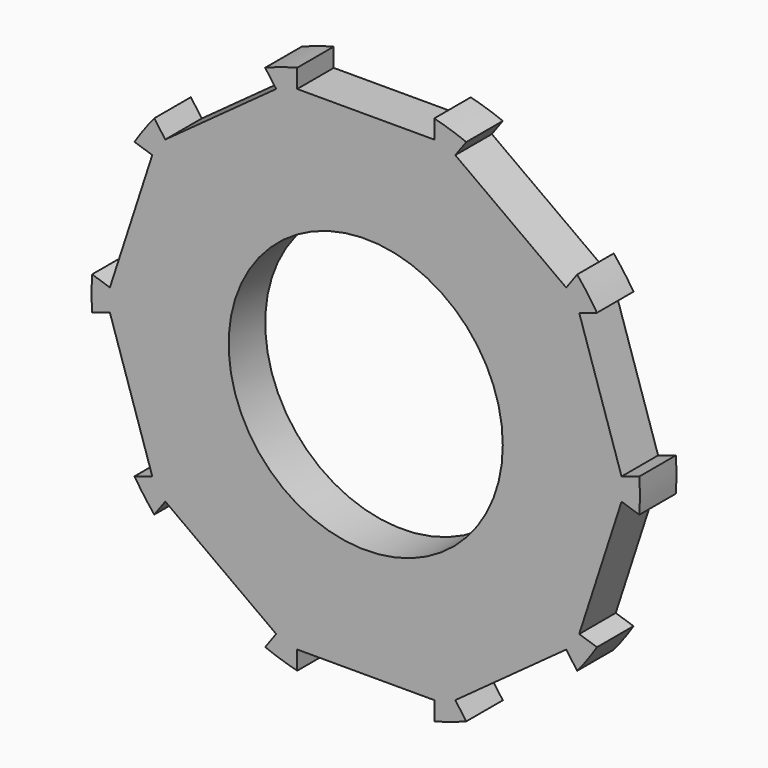
from build123d import *

# Parameters (mm, degrees)
F0_R     = 30
F0_R_2   = 15
F1_DEPTH = 5
F2_DEPTH = 25


with BuildPart() as f1:
    # F0 (on Front) → F1 (new body)
    with BuildSketch(Plane.XZ):
        Circle(F0_R)
        Circle(F0_R_2, mode=Mode.SUBTRACT)
    extrude(amount=F1_DEPTH)

    # F3 (on face) → F2 (cut)
    with BuildSketch(Plane.XZ.offset(5)):
        with BuildLine():
            ThreePointArc((7.5, 29.0473750966), (3.7801287745, 29.760890888), (0, 30))
            Line((0, 30), (0, 27))
            Line((0, 27), (7.5, 27))
            Line((7.5, 27), (7.5, 29.0473750966))
        make_face()
        with BuildLine():
            Line((0, 27), (0, 30))
            ThreePointArc((0, 30), (-3.7801287745, 29.760890888), (-7.5, 29.0473750966))
            Line((-7.5, 29.0473750966), (-7.5, 27))
            Line((-7.5, 27), (0, 27))
        make_face()
        with BuildLine():
            Line((-17.6335575688, 24.2705098312), (-15.8702018119, 21.8434588481))
            Line((-15.8702018119, 21.8434588481), (-9.8025743541, 26.2518482403))
            Line((-9.8025743541, 26.2518482403), (-11.0059912418, 27.9082094873))
            ThreePointArc((-11.0059912418, 27.9082094873), (-14.4348243396, 26.2989704415), (-17.6335575688, 24.2705098312))
        make_face()
        with BuildLine():
            Line((-21.9378292697, 17.4350694559), (-15.8702018119, 21.8434588481))
            Line((-15.8702018119, 21.8434588481), (-17.6335575688, 24.2705098312))
            ThreePointArc((-17.6335575688, 24.2705098312), (-20.5512011785, 21.8551625507), (-23.1412461574, 19.0914307029))
            Line((-23.1412461574, 19.0914307029), (-21.9378292697, 17.4350694559))
        make_face()
        with BuildLine():
            Line((-28.5316954889, 9.2705098312), (-25.67852594, 8.3434588481))
            Line((-25.67852594, 8.3434588481), (-23.3608984822, 15.4763827203))
            Line((-23.3608984822, 15.4763827203), (-25.308067909, 16.109056419))
            ThreePointArc((-25.308067909, 16.109056419), (-27.1361651776, 12.7917371555), (-28.5316954889, 9.2705098312))
        make_face()
        with BuildLine():
            Line((-27.9961533978, 1.2105349759), (-25.67852594, 8.3434588481))
            Line((-25.67852594, 8.3434588481), (-28.5316954889, 9.2705098312))
            ThreePointArc((-28.5316954889, 9.2705098312), (-29.472413242, 5.6015049487), (-29.9433228247, 1.8432086746))
            Line((-29.9433228247, 1.8432086746), (-27.9961533978, 1.2105349759))
        make_face()
        with BuildLine():
            Line((-28.5316954889, -9.2705098312), (-25.67852594, -8.3434588481))
            Line((-25.67852594, -8.3434588481), (-27.9961533978, -1.2105349759))
            Line((-27.9961533978, -1.2105349759), (-29.9433228247, -1.8432086746))
            ThreePointArc((-29.9433228247, -1.8432086746), (-29.472413242, -5.6015049487), (-28.5316954889, -9.2705098312))
        make_face()
        with BuildLine():
            Line((-23.3608984822, -15.4763827203), (-25.67852594, -8.3434588481))
            Line((-25.67852594, -8.3434588481), (-28.5316954889, -9.2705098312))
            ThreePointArc((-28.5316954889, -9.2705098312), (-27.1361651776, -12.7917371555), (-25.308067909, -16.109056419))
            Line((-25.308067909, -16.109056419), (-23.3608984822, -15.4763827203))
        make_face()
        with BuildLine():
            Line((-17.6335575688, -24.2705098312), (-15.8702018119, -21.8434588481))
            Line((-15.8702018119, -21.8434588481), (-21.9378292697, -17.4350694559))
            Line((-21.9378292697, -17.4350694559), (-23.1412461574, -19.0914307029))
            ThreePointArc((-23.1412461574, -19.0914307029), (-20.5512011785, -21.8551625507), (-17.6335575688, -24.2705098312))
        make_face()
        with BuildLine():
            Line((-9.8025743541, -26.2518482403), (-15.8702018119, -21.8434588481))
            Line((-15.8702018119, -21.8434588481), (-17.6335575688, -24.2705098312))
            ThreePointArc((-17.6335575688, -24.2705098312), (-14.4348243396, -26.2989704415), (-11.0059912418, -27.9082094873))
            Line((-11.0059912418, -27.9082094873), (-9.8025743541, -26.2518482403))
        make_face()
        with BuildLine():
            Line((0, -30), (0, -27))
            Line((0, -27), (-7.5, -27))
            Line((-7.5, -27), (-7.5, -29.0473750966))
            ThreePointArc((-7.5, -29.0473750966), (-3.7801287745, -29.760890888), (0, -30))
        make_face()
        with BuildLine():
            Line((7.5, -27), (0, -27))
            Line((0, -27), (0, -30))
            ThreePointArc((0, -30), (3.7801287745, -29.760890888), (7.5, -29.0473750966))
            Line((7.5, -29.0473750966), (7.5, -27))
        make_face()
        with BuildLine():
            Line((17.6335575688, -24.2705098312), (15.8702018119, -21.8434588481))
            Line((15.8702018119, -21.8434588481), (9.8025743541, -26.2518482403))
            Line((9.8025743541, -26.2518482403), (11.0059912418, -27.9082094873))
            ThreePointArc((11.0059912418, -27.9082094873), (14.4348243396, -26.2989704415), (17.6335575688, -24.2705098312))
        make_face()
        with BuildLine():
            Line((21.9378292697, -17.4350694559), (15.8702018119, -21.8434588481))
            Line((15.8702018119, -21.8434588481), (17.6335575688, -24.2705098312))
            ThreePointArc((17.6335575688, -24.2705098312), (20.5512011785, -21.8551625507), (23.1412461574, -19.0914307029))
            Line((23.1412461574, -19.0914307029), (21.9378292697, -17.4350694559))
        make_face()
        with BuildLine():
            Line((28.5316954889, -9.2705098312), (25.67852594, -8.3434588481))
            Line((25.67852594, -8.3434588481), (23.3608984822, -15.4763827203))
            Line((23.3608984822, -15.4763827203), (25.308067909, -16.109056419))
            ThreePointArc((25.308067909, -16.109056419), (27.1361651776, -12.7917371555), (28.5316954889, -9.2705098312))
        make_face()
        with BuildLine():
            Line((27.9961533978, -1.2105349759), (25.67852594, -8.3434588481))
            Line((25.67852594, -8.3434588481), (28.5316954889, -9.2705098312))
            ThreePointArc((28.5316954889, -9.2705098312), (29.472413242, -5.6015049487), (29.9433228247, -1.8432086746))
            Line((29.9433228247, -1.8432086746), (27.9961533978, -1.2105349759))
        make_face()
        with BuildLine():
            Line((28.5316954889, 9.2705098312), (25.67852594, 8.3434588481))
            Line((25.67852594, 8.3434588481), (27.9961533978, 1.2105349759))
            Line((27.9961533978, 1.2105349759), (29.9433228247, 1.8432086746))
            ThreePointArc((29.9433228247, 1.8432086746), (29.472413242, 5.6015049487), (28.5316954889, 9.2705098312))
        make_face()
        with BuildLine():
            Line((23.3608984822, 15.4763827203), (25.67852594, 8.3434588481))
            Line((25.67852594, 8.3434588481), (28.5316954889, 9.2705098312))
            ThreePointArc((28.5316954889, 9.2705098312), (27.1361651776, 12.7917371555), (25.308067909, 16.109056419))
            Line((25.308067909, 16.109056419), (23.3608984822, 15.4763827203))
        make_face()
        with BuildLine():
            Line((17.6335575688, 24.2705098312), (15.8702018119, 21.8434588481))
            Line((15.8702018119, 21.8434588481), (21.9378292697, 17.4350694559))
            Line((21.9378292697, 17.4350694559), (23.1412461574, 19.0914307029))
            ThreePointArc((23.1412461574, 19.0914307029), (20.5512011785, 21.8551625507), (17.6335575688, 24.2705098312))
        make_face()
        with BuildLine():
            Line((9.8025743541, 26.2518482403), (15.8702018119, 21.8434588481))
            Line((15.8702018119, 21.8434588481), (17.6335575688, 24.2705098312))
            ThreePointArc((17.6335575688, 24.2705098312), (14.4348243396, 26.2989704415), (11.0059912418, 27.9082094873))
            Line((11.0059912418, 27.9082094873), (9.8025743541, 26.2518482403))
        make_face()
    extrude(amount=-F2_DEPTH, mode=Mode.SUBTRACT)


solid = f1.part
